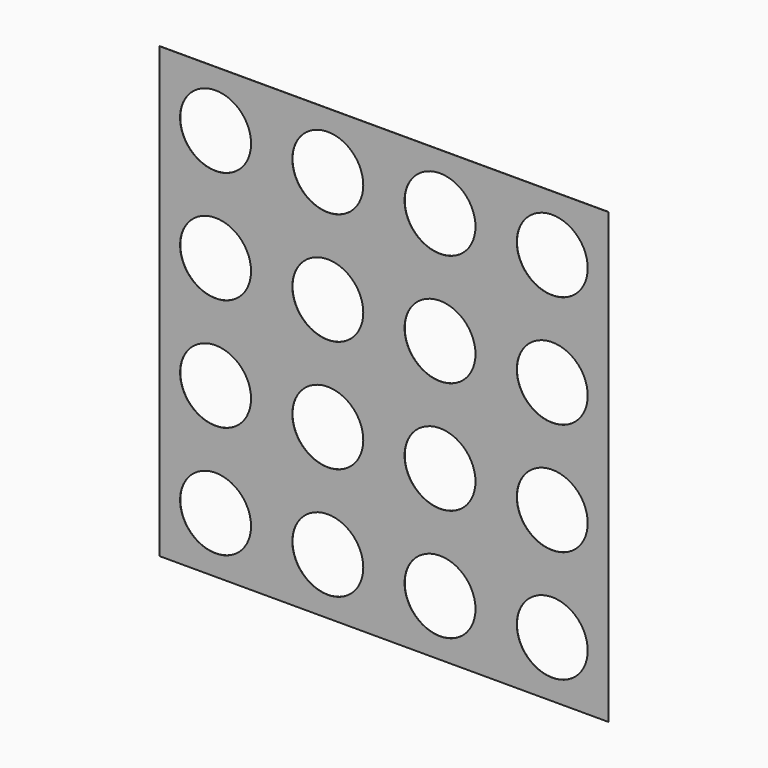
from build123d import *

# Parameters (mm, degrees)
F0_W     = 50.8
F0_H     = 50.8
F0_R     = 4.0132
F0_R_2   = 4.016422
F1_DEPTH = 0.0254


with BuildPart() as f1:
    # F0 (on Front) → F1 (new body)
    with BuildSketch(Plane.XZ):
        with Locations((25.4, 25.4)):
            Rectangle(F0_W, F0_H)
        with Locations((6.35, 6.35)):
            Circle(F0_R, mode=Mode.SUBTRACT)
        with Locations((19.05, 6.35)):
            Circle(F0_R, mode=Mode.SUBTRACT)
        with Locations((6.35, 19.05)):
            Circle(F0_R, mode=Mode.SUBTRACT)
        with Locations((19.05, 19.05)):
            Circle(F0_R, mode=Mode.SUBTRACT)
        with Locations((31.75, 6.35)):
            Circle(F0_R, mode=Mode.SUBTRACT)
        with Locations((44.45, 6.35)):
            Circle(F0_R, mode=Mode.SUBTRACT)
        with Locations((31.75, 19.05)):
            Circle(F0_R, mode=Mode.SUBTRACT)
        with Locations((44.45, 19.05)):
            Circle(F0_R, mode=Mode.SUBTRACT)
        with Locations((6.35, 31.75)):
            Circle(F0_R, mode=Mode.SUBTRACT)
        with Locations((19.05, 31.75)):
            Circle(F0_R, mode=Mode.SUBTRACT)
        with Locations((6.35, 44.45)):
            Circle(F0_R_2, mode=Mode.SUBTRACT)
        with Locations((19.05, 44.45)):
            Circle(F0_R, mode=Mode.SUBTRACT)
        with Locations((31.75, 31.75)):
            Circle(F0_R, mode=Mode.SUBTRACT)
        with Locations((44.45, 31.75)):
            Circle(F0_R, mode=Mode.SUBTRACT)
        with Locations((31.75, 44.45)):
            Circle(F0_R, mode=Mode.SUBTRACT)
        with Locations((44.45, 44.45)):
            Circle(F0_R, mode=Mode.SUBTRACT)
    extrude(amount=F1_DEPTH)


solid = f1.part
